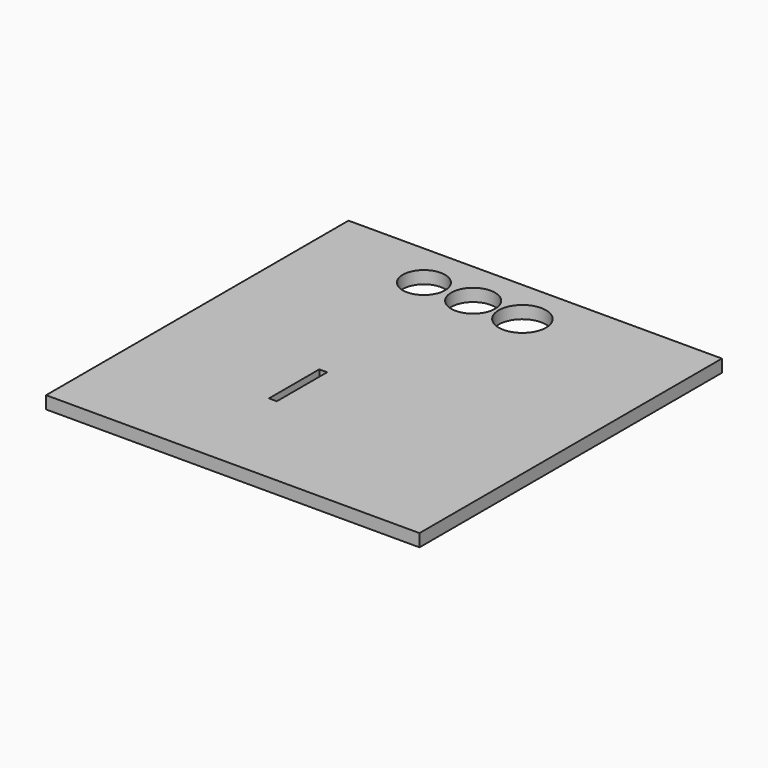
from build123d import *

# Parameters (mm, degrees)
F0_W     = 150.821402669
F0_H     = 152.6858285069
F0_W_2   = 3.175
F0_H_2   = 25.4
F0_R     = 8.5350721602
F1_DEPTH = 5.08


with BuildPart() as f1:
    # F0 (on Top) → F1 (new body)
    with BuildSketch(Plane.XY):
        with Locations((-0.7561892271, -0.6262175739)):
            Rectangle(F0_W, F0_H)
        with Locations((-18.3173127979, -22.0731783986)):
            Rectangle(F0_W_2, F0_H_2, mode=Mode.SUBTRACT)
        with Locations((-31.1815738678, 57.5412772596)):
            Circle(F0_R, mode=Mode.SUBTRACT)
        with BuildLine():
            ThreePointArc((-2.437382494, 57.5412772596), (-11.2857981585, 48.6928615951), (-20.134213823, 57.5412772596))
            ThreePointArc((-20.134213823, 57.5412772596), (-11.2857981585, 66.3896929241), (-2.437382494, 57.5412772596))
        make_face(mode=Mode.SUBTRACT)
        with BuildLine():
            ThreePointArc((18.1603263455, 57.5412772596), (8.6099775508, 47.9909284649), (-0.9403712439, 57.5412772596))
            ThreePointArc((-0.9403712439, 57.5412772596), (8.6099775508, 67.0916260543), (18.1603263455, 57.5412772596))
        make_face(mode=Mode.SUBTRACT)
    extrude(amount=-F1_DEPTH)


solid = f1.part
